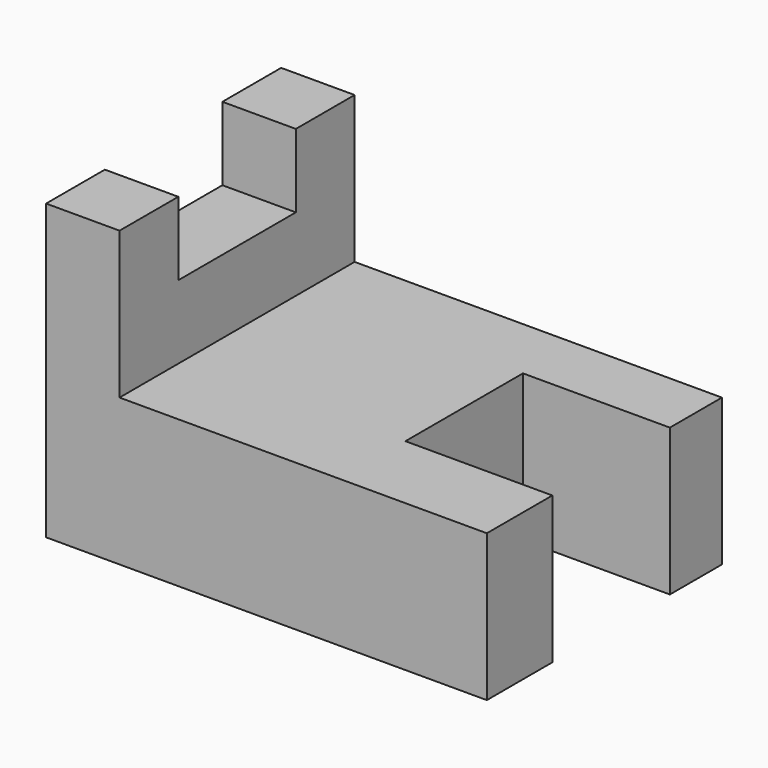
from build123d import *

# Parameters (mm, degrees)
F1_DEPTH = 12.7
F2_W     = 6.35
F2_H     = 6.35
F3_DEPTH = 12.7
F4_W     = 6.35
F4_H     = 12.7
F5_DEPTH = 6.35


with BuildPart() as f1:
    # F0 (on Top) → F1 (new body)
    with BuildSketch(Plane.XY):
        Polygon((0, 25.4), (0, 0), (38.1, 0), (38.1, 7.075736), (25.4, 7.075736), (25.4, 19.775736), (38.1, 19.775736), (38.1, 25.4), align=None)
    extrude(amount=F1_DEPTH)

    # F2 (on face) → F3 (join)
    with BuildSketch(Plane.XY.offset(12.7)):
        with Locations((3.175, 3.175)):
            Rectangle(F2_W, F2_H)
        with Locations((3.175, 22.225)):
            Rectangle(F2_W, F2_H)
    extrude(amount=F3_DEPTH)

    # F4 (on face) → F5 (join)
    with BuildSketch(Plane.XY.offset(12.7)):
        with Locations((3.175, 12.7)):
            Rectangle(F4_W, F4_H)
    extrude(amount=F5_DEPTH)


solid = f1.part
